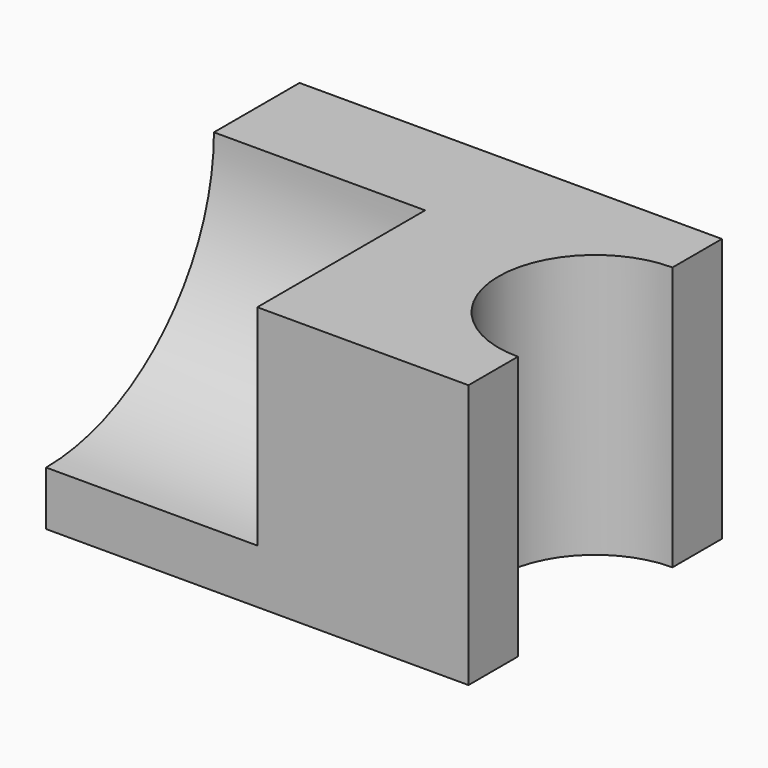
from build123d import *

# Parameters (mm, degrees)
F0_W     = 101.6
F0_H     = 76.2
F1_DEPTH = 63.5
F3_DEPTH = 71.628
F4_R     = 50.467154
F5_DEPTH = 50.8


with BuildPart() as f1:
    # F0 (on Top) → F1 (new body)
    with BuildSketch(Plane.XY):
        with Locations((83.7779, -52.045282)):
            Rectangle(F0_W, F0_H)
    extrude(amount=F1_DEPTH)

    # F2 (on face) → F3 (cut)
    with BuildSketch(Plane.XY.offset(63.5)):
        with BuildLine():
            ThreePointArc((134.5779, -75.284243), (151.010327, -68.477709), (157.81686, -52.045282))
            ThreePointArc((157.81686, -52.045282), (151.010327, -35.612856), (134.5779, -28.806322))
            Line((134.5779, -28.806322), (134.5779, -75.284243))
        make_face()
        with BuildLine():
            Line((134.5779, -75.284243), (134.5779, -28.806322))
            ThreePointArc((134.5779, -28.806322), (111.33894, -52.045282), (134.5779, -75.284243))
        make_face()
    extrude(amount=-F3_DEPTH, mode=Mode.SUBTRACT)

    # F4 (on face) → F5 (cut)
    with BuildSketch(Plane(origin=(32.9779, 0, 0), x_dir=(0, -1, 0), z_dir=(-1, 0, 0))):
        with Locations((90.145282, 63.5)):
            Circle(F4_R)
    extrude(amount=-F5_DEPTH, mode=Mode.SUBTRACT)


solid = f1.part
